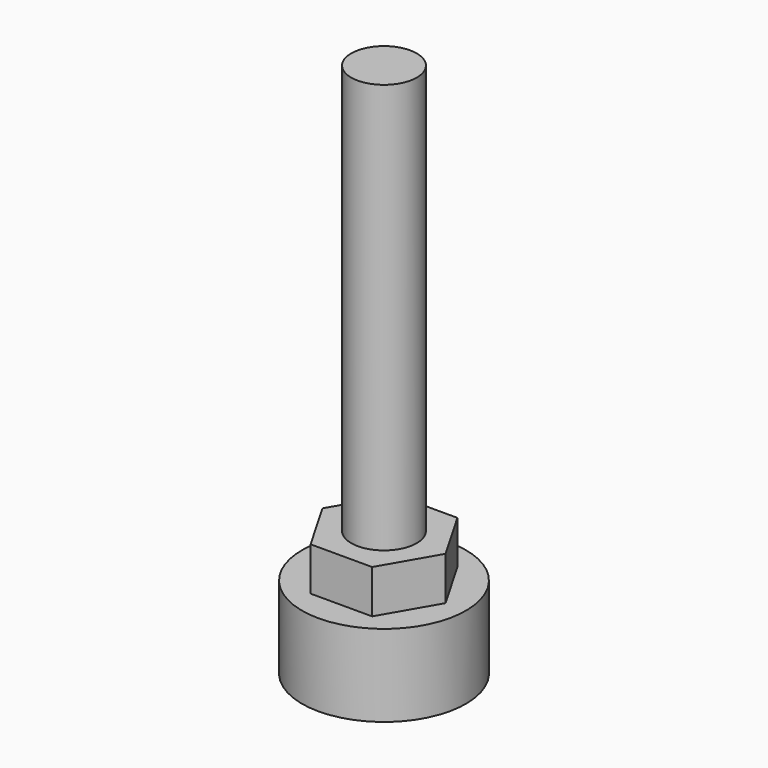
from build123d import *

# Parameters (mm, degrees)
F3_DEPTH = 5.3


with BuildPart() as f1:
    # F0 (on Right) → F1 (revolve)
    with BuildSketch(Plane.YZ):
        Polygon((-10, 0), (0, 0), (0, 65.3), (-4, 65.3), (-4, 15.3), (-6.5, 15.3), (-6.5, 10), (-10, 10), align=None)
    revolve(axis=Axis((0, 0, 64.602787), (0, 0, 1)))

    # F2 (on face) → F3 (join, through all)
    with BuildSketch(Plane.XY.offset(10)):
        Polygon((-7.505553, 0), (-3.752777, -6.5), (3.752777, -6.5), (7.505553, 0), (3.752777, 6.5), (-3.752777, 6.5), align=None)
    extrude(amount=F3_DEPTH)


solid = f1.part
